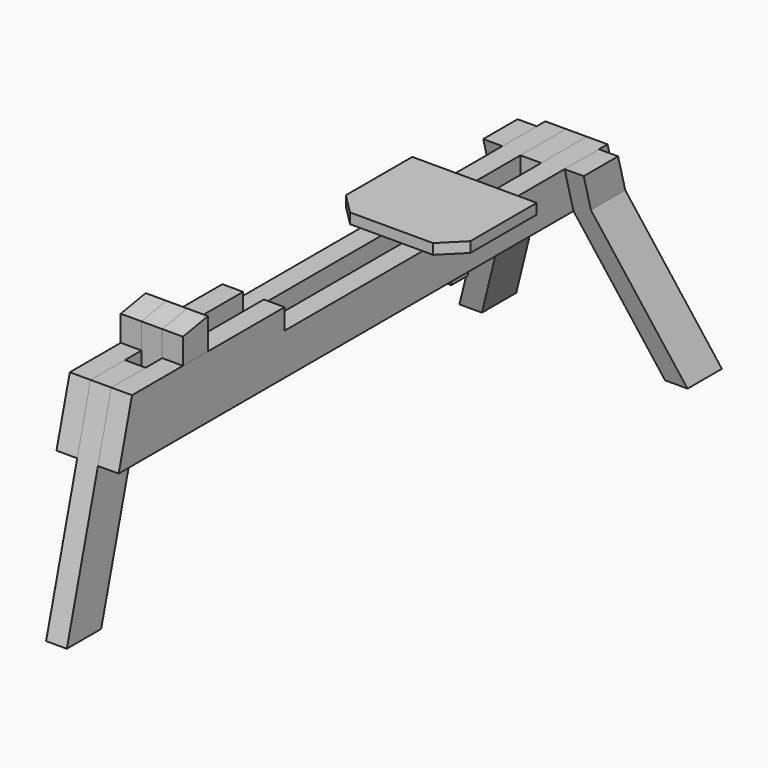
from build123d import *

# Parameters (mm, degrees)
F2_DEPTH  = 50.8
F4_DEPTH  = 25.4
F6_DEPTH  = 203.2
F8_DEPTH  = 1552.1522609196
F10_W     = 139.7
F10_H     = 101.6
F11_DEPTH = 25.4
F13_DEPTH = 25.4
F14_W     = 49.2125
F14_H     = 50.8
F15_DEPTH = 152.4
F17_DEPTH = 25.4
F19_DEPTH = 50.8


with BuildPart() as f2:
    # F1 (on offset) → F2 (new body)
    with BuildSketch(Plane.YZ.offset(25.4)):
        Polygon((467.1645430735, 0), (0, 0), (-40.8354569265, -152.4), (1483.1645430735, -152.4), (1455.9409051225, -50.8), (467.1645430735, -50.8), align=None)
    extrude(amount=F2_DEPTH)


with BuildPart() as f4:
    # F3 (on Right) → F4 (new body, symmetric)
    with BuildSketch(Plane.YZ):
        Polygon((105.1840599297, 0), (0, 0), (-136.118189755, -508), (-30.9341298253, -508), align=None)
    extrude(amount=F4_DEPTH, both=True)


with BuildPart() as f6:
    # F5 (on face) → F6 (new body)
    with BuildSketch(Plane.YZ.offset(76.2)):
        Polygon((1429.6448901401, -50.8), (1324.4608302104, -50.8), (1446.9672009899, -508), (1552.1512609196, -508), align=None)
    extrude(amount=F6_DEPTH)

    # F7 (on Front) → F8 (cut, through all)
    with BuildSketch(Plane.XZ):
        Polygon((224.3666666667, -508), (76.2, -152.4), (76.2, -508), align=None)
        Polygon((123.0923076923, -132.8615384615), (279.4, -508), (279.4, -50.8), (123.0923076923, -50.8), align=None)
    extrude(amount=-F8_DEPTH, mode=Mode.SUBTRACT)


with BuildPart() as f9_1:
    # F9: instance of F2
    add(f2.part.mirror(Plane.YZ))


with BuildPart() as f9_2:
    # F9: instance of F6
    add(f6.part.mirror(Plane.YZ))


with BuildPart() as f11:
    # F10 (on Right) → F11 (new body, symmetric)
    with BuildSketch(Plane.YZ):
        with Locations((1386.0909051225, -101.6)):
            Rectangle(F10_W, F10_H)
    extrude(amount=F11_DEPTH, both=True)


with BuildPart() as f13:
    # F12 (on face) → F13 (new body)
    with BuildSketch(Plane.XY.offset(-50.8)):
        Polygon((152.4, 1143.846988678), (0, 1143.846988678), (-152.4, 1143.846988678), (-152.4, 940.646988678), (-101.6, 889.846988678), (0, 889.846988678), (101.6, 889.846988678), (152.4, 940.646988678), align=None)
    extrude(amount=F13_DEPTH)


with BuildPart() as f15:
    # F14 (on face) → F15 (new body)
    with BuildSketch(Plane(origin=(0, 0, -50.8), x_dir=(1, 0, 0), z_dir=(0, 0, -1))):
        with Locations((0, -1067.646988678)):
            Rectangle(F14_W, F14_H)
    extrude(amount=F15_DEPTH)


with BuildPart() as f17:
    # F16 (on Right) → F17 (new body, symmetric)
    with BuildSketch(Plane.YZ):
        Polygon((155.9840599297, 62.76388407), (155.9840599297, -152.4), (232.1840599297, -152.4), (232.1840599297, 76.2), align=None)
    extrude(amount=F17_DEPTH, both=True)


with BuildPart() as f19:
    # F18 (on face) → F19 (new body)
    with BuildSketch(Plane.YZ.offset(25.4)):
        Polygon((232.1840599297, 0), (232.1840599297, 76.2), (155.9840599297, 62.76388407), (155.9840599297, 0), align=None)
    extrude(amount=F19_DEPTH)


with BuildPart() as f20_1:
    # F20: instance of F19
    add(f19.part.mirror(Plane.YZ))


solid = Compound([f2.part, f4.part, f6.part, f9_1.part, f9_2.part, f11.part, f13.part, f15.part, f17.part, f19.part, f20_1.part])
